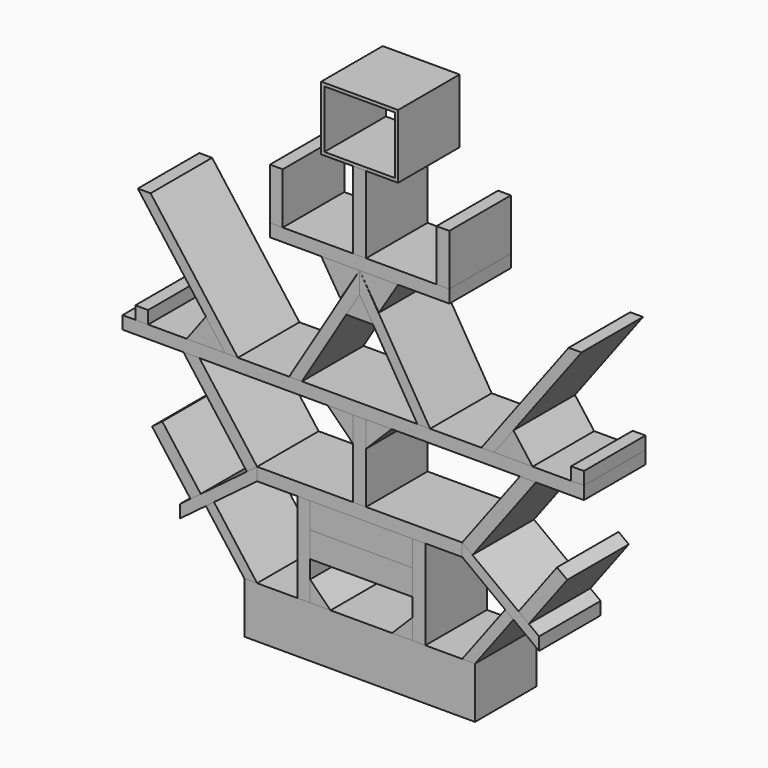
from build123d import *

# Parameters (mm, degrees)
F0_W      = 180
F0_H      = 60
F1_DEPTH  = 40
F3_DEPTH  = 60
F2_W      = 10
F2_H      = 10
F2_W_2    = 80
F2_H_2    = 20
F5_DEPTH  = 60
F6_T      = -2.5
F7_DEPTH  = 60
F8_T      = -2.5
F9_DEPTH  = 60
F10_DEPTH = 60
F11_DEPTH = 60
F12_DEPTH = 60
F2_H_3    = 40
F14_DEPTH = 60
F15_T     = -2.5


with BuildPart() as f1:
    # F0 (on Top) → F1 (new body)
    with BuildSketch(Plane.XY):
        Rectangle(F0_W, F0_H)
    extrude(amount=-F1_DEPTH)


with BuildPart() as f3:
    # F2 (on face) → F3 (new body)
    with BuildSketch(Plane(origin=(0, 30, 0), x_dir=(-1, 0, 0), z_dir=(0, 1, 0))):
        Polygon((80, 0), (90, 0), (120.0000012588, 39.9999990559), (113.6000014098, 44.7999989426), align=None)
    extrude(amount=-F3_DEPTH)


with BuildPart() as f3b:
    # F2 (on face) → F3, piece 2 (new body)
    with BuildSketch(Plane(origin=(0, 30, 0), x_dir=(-1, 0, 0), z_dir=(0, 1, 0))):
        Polygon((124, 47), (132, 41), (162, 81), (154, 87), align=None)
    extrude(amount=-F3_DEPTH)


with BuildPart() as f3c:
    # F2 (on face) → F3, piece 3 (new body)
    with BuildSketch(Plane(origin=(0, 30, 0), x_dir=(-1, 0, 0), z_dir=(0, 1, 0))):
        Polygon((125, 140), (80, 80), (88, 74), (137.5, 140), align=None)
    extrude(amount=-F3_DEPTH)


with BuildPart() as f3d:
    # F2 (on face) → F3, piece 4 (new body)
    with BuildSketch(Plane(origin=(0, 30, 0), x_dir=(-1, 0, 0), z_dir=(0, 1, 0))):
        Polygon((5, 140), (5, 120), (25, 140), align=None)
    extrude(amount=-F3_DEPTH)


with BuildPart() as f3e:
    # F2 (on face) → F3, piece 5 (new body)
    with BuildSketch(Plane(origin=(0, 30, 0), x_dir=(-1, 0, 0), z_dir=(0, 1, 0))):
        Polygon((120, 150), (135, 150), (120, 170), (105, 150), align=None)
    extrude(amount=-F3_DEPTH)


with BuildPart() as f3f:
    # F2 (on face) → F3, piece 6 (new body)
    with BuildSketch(Plane(origin=(0, 30, 0), x_dir=(-1, 0, 0), z_dir=(0, 1, 0))):
        with Locations((170, 155)):
            Rectangle(F2_W, F2_H)
    extrude(amount=-F3_DEPTH)


with BuildPart() as f3g:
    # F2 (on face) → F3, piece 7 (new body)
    with BuildSketch(Plane(origin=(0, 30, 0), x_dir=(-1, 0, 0), z_dir=(0, 1, 0))):
        Polygon((10.4221828335, 207.086564962), (45, 150), (55, 150), (10, 224.293163473), (0, 240.8027553558), (0, 224.293163473), align=None)
    extrude(amount=-F3_DEPTH)


with BuildPart() as f4_1:
    # F4: instance of F3
    add(f3.part.mirror(Plane.YZ))


with BuildPart() as f4_2:
    # F4: instance of F3b
    add(f3b.part.mirror(Plane.YZ))


with BuildPart() as f4_3:
    # F4: instance of F3c
    add(f3c.part.mirror(Plane.YZ))


with BuildPart() as f4_4:
    # F4: instance of F3d
    add(f3d.part.mirror(Plane.YZ))


with BuildPart() as f4_5:
    # F4: instance of F3f
    add(f3f.part.mirror(Plane.YZ))


with BuildPart() as f4_6:
    # F4: instance of F3e
    add(f3e.part.mirror(Plane.YZ))


with BuildPart() as f4_7:
    # F4: instance of F3g
    add(f3g.part.mirror(Plane.YZ))


with BuildPart() as f5:
    # F2 (on face) → F5 (new body)
    with BuildSketch(Plane(origin=(0, 30, 0), x_dir=(-1, 0, 0), z_dir=(0, 1, 0))):
        with Locations((-1.3216203451, 40)):
            Rectangle(F2_W_2, F2_H_2)
    extrude(amount=-F5_DEPTH)

    # F6
    f6_openings = [f5.faces().sort_by_distance(p)[0] for p in [
        (1.32162, 0, 50),
    ]]
    offset(amount=F6_T, openings=f6_openings)


with BuildPart() as f7:
    # F2 (on face) → F7 (new body)
    with BuildSketch(Plane(origin=(0, 30, 0), x_dir=(-1, 0, 0), z_dir=(0, 1, 0))):
        with Locations((-1.3216203451, 60)):
            Rectangle(F2_W_2, F2_H_2)
        with Locations((-1.3216203451, 60)):
            Rectangle(F2_W_2, F2_H_2)
    extrude(amount=-F7_DEPTH)

    # F8
    f8_openings = [f7.faces().sort_by_distance(p)[0] for p in [
        (1.32162, 0, 70),
    ]]
    offset(amount=F8_T, openings=f8_openings)


with BuildPart() as f7b:
    # F2 (on face) → F7, piece 2 (new body)
    with BuildSketch(Plane(origin=(0, 30, 0), x_dir=(-1, 0, 0), z_dir=(0, 1, 0))):
        Polygon((-10.74806, 207.086564962), (10.4221828335, 207.086564962), (0, 224.293163473), align=None)
    extrude(amount=-F7_DEPTH)


with BuildPart() as f9:
    # F2 (on face) → F9 (new body)
    with BuildSketch(Plane(origin=(0, 30, 0), x_dir=(-1, 0, 0), z_dir=(0, 1, 0))):
        Polygon((38.6783796549, 0), (48.6783796549, 0), (48.6783796549, 70), (38.6783796549, 70), (38.6783796549, 50), (38.6783796549, 30), (38.6783796549, 16), align=None)
    extrude(amount=-F9_DEPTH)


with BuildPart() as f9b:
    # F2 (on face) → F9, piece 2 (new body)
    with BuildSketch(Plane(origin=(0, 30, 0), x_dir=(-1, 0, 0), z_dir=(0, 1, 0))):
        Polygon((-51.3216203451, 70), (-51.3216203451, 0), (-41.3216203451, 0), (-41.3216203451, 16), (-41.3216203451, 30), (-41.3216203451, 50), (-41.3216203451, 70), align=None)
    extrude(amount=-F9_DEPTH)


with BuildPart() as f9c:
    # F2 (on face) → F9, piece 3 (new body)
    with BuildSketch(Plane(origin=(0, 30, 0), x_dir=(-1, 0, 0), z_dir=(0, 1, 0))):
        Polygon((-5, 80), (5, 80), (5, 120), (5, 140), (-5, 140), align=None)
    extrude(amount=-F9_DEPTH)


with BuildPart() as f10:
    # F2 (on face) → F10 (new body)
    with BuildSketch(Plane(origin=(0, 30, 0), x_dir=(-1, 0, 0), z_dir=(0, 1, 0))):
        Polygon((-41.3216203451, 0), (-25.3216203451, 0), (-41.3216203451, 16), align=None)
    extrude(amount=-F10_DEPTH)


with BuildPart() as f10b:
    # F2 (on face) → F10, piece 2 (new body)
    with BuildSketch(Plane(origin=(0, 30, 0), x_dir=(-1, 0, 0), z_dir=(0, 1, 0))):
        Polygon((22.6783796549, 0), (38.6783796549, 0), (38.6783796549, 16), align=None)
    extrude(amount=-F10_DEPTH)


with BuildPart() as f10c:
    # F2 (on face) → F10, piece 3 (new body)
    with BuildSketch(Plane(origin=(0, 30, 0), x_dir=(-1, 0, 0), z_dir=(0, 1, 0))):
        Polygon((25, 140), (125, 140), (137.5, 140), (185, 140), (185, 150), (175, 150), (165, 150), (135, 150), (120, 150), (105, 150), (95, 150), (55, 150), (45, 150), (-175, 150), (-175, 140), (-5, 140), (5, 140), align=None)
    extrude(amount=-F10_DEPTH)


with BuildPart() as f10d:
    # F2 (on face) → F10, piece 4 (new body)
    with BuildSketch(Plane(origin=(0, 30, 0), x_dir=(-1, 0, 0), z_dir=(0, 1, 0))):
        Polygon((48.6783796549, 70), (80, 70), (80, 80), (5, 80), (-5, 80), (-80, 80), (-80, 70), (-51.3216203451, 70), (-41.3216203451, 70), (38.6783796549, 70), align=None)
    extrude(amount=-F10_DEPTH)


with BuildPart() as f10e:
    # F2 (on face) → F10, piece 5 (new body)
    with BuildSketch(Plane(origin=(0, 30, 0), x_dir=(-1, 0, 0), z_dir=(0, 1, 0))):
        Polygon((30, 240.8027553558), (0, 240.8027553558), (15, 216.6666666667), align=None)
    extrude(amount=-F10_DEPTH)


with BuildPart() as f11:
    # F2 (on face) → F11 (new body)
    with BuildSketch(Plane(origin=(0, 30, 0), x_dir=(-1, 0, 0), z_dir=(0, 1, 0))):
        Polygon((48.6783796549, 70), (80, 70), (80, 80), (5, 80), (-5, 80), (-80, 80), (-80, 70), (-51.3216203451, 70), (-41.3216203451, 70), (38.6783796549, 70), align=None)
    extrude(amount=-F11_DEPTH)


with BuildPart() as f11b:
    # F2 (on face) → F11, piece 2 (new body)
    with BuildSketch(Plane(origin=(0, 30, 0), x_dir=(-1, 0, 0), z_dir=(0, 1, 0))):
        Polygon((-70, 240.8027553558), (0, 240.8027553558), (30, 240.8027553558), (70, 240.8027553558), (70, 250.8027553558), (60, 250.8027553558), (15, 250.8027553558), (5, 250.8027553558), (0, 250.8027553558), (-5, 250.8027553558), (-70, 250.8027553558), align=None)
    extrude(amount=-F11_DEPTH)


with BuildPart() as f12:
    # F2 (on face) → F12 (new body)
    with BuildSketch(Plane(origin=(0, 30, 0), x_dir=(-1, 0, 0), z_dir=(0, 1, 0))):
        Polygon((113.6000014098, 44.7999989426), (120.0000012588, 39.9999990559), (140, 25), (140, 35), (132, 41), (124, 47), (88, 74), (80, 80), (80, 70), align=None)
    extrude(amount=-F12_DEPTH)


with BuildPart() as f12b:
    # F2 (on face) → F12, piece 2 (new body)
    with BuildSketch(Plane(origin=(0, 30, 0), x_dir=(-1, 0, 0), z_dir=(0, 1, 0))):
        Polygon((163.1020665169, 240.8027553558), (95, 150), (105, 150), (120, 170), (173.1020665169, 240.8027553558), align=None)
    extrude(amount=-F12_DEPTH)


with BuildPart() as f12c:
    # F2 (on face) → F12, piece 3 (new body)
    with BuildSketch(Plane(origin=(0, 30, 0), x_dir=(-1, 0, 0), z_dir=(0, 1, 0))):
        with Locations((65, 270.8027553558)):
            Rectangle(F2_W, F2_H_3)
    extrude(amount=-F12_DEPTH)


with BuildPart() as f12d:
    # F2 (on face) → F12, piece 4 (new body)
    with BuildSketch(Plane(origin=(0, 30, 0), x_dir=(-1, 0, 0), z_dir=(0, 1, 0))):
        Polygon((-5, 310.8027553558), (-5, 250.8027553558), (0, 250.8027553558), (5, 250.8027553558), (5, 310.8027553558), align=None)
        Polygon((-5, 310.8027553558), (-5, 250.8027553558), (0, 250.8027553558), (5, 250.8027553558), (5, 310.8027553558), align=None)
    extrude(amount=-F12_DEPTH)


with BuildPart() as f13_1:
    # F13: instance of F12
    add(f12.part.mirror(Plane.YZ))


with BuildPart() as f13_2:
    # F13: instance of F12b
    add(f12b.part.mirror(Plane.YZ))


with BuildPart() as f13_3:
    # F13: instance of F10e
    add(f10e.part.mirror(Plane.YZ))


with BuildPart() as f13_4:
    # F13: instance of F12c
    add(f12c.part.mirror(Plane.YZ))


with BuildPart() as f14:
    # F2 (on face) → F14 (new body)
    with BuildSketch(Plane(origin=(0, 30, 0), x_dir=(-1, 0, 0), z_dir=(0, 1, 0))):
        Polygon((-30, 310.8027553558), (-5, 310.8027553558), (5, 310.8027553558), (30, 310.8027553558), (30, 360.8027553558), (-30, 360.8027553558), align=None)
    extrude(amount=-F14_DEPTH)

    # F15
    f15_openings = [f14.faces().sort_by_distance(p)[0] for p in [
        (0, -30, 335.802755),
        (0, 30, 335.802755),
    ]]
    offset(amount=F15_T, openings=f15_openings)


solid = Compound([f1.part, f3.part, f3b.part, f3c.part, f3d.part, f3e.part, f3f.part, f3g.part, f4_1.part, f4_2.part, f4_3.part, f4_4.part, f4_5.part, f4_6.part, f4_7.part, f5.part, f7.part, f7b.part, f9.part, f9b.part, f9c.part, f10.part, f10b.part, f10c.part, f10d.part, f10e.part, f11.part, f11b.part, f12.part, f12b.part, f12c.part, f12d.part, f13_1.part, f13_2.part, f13_3.part, f13_4.part, f14.part])
